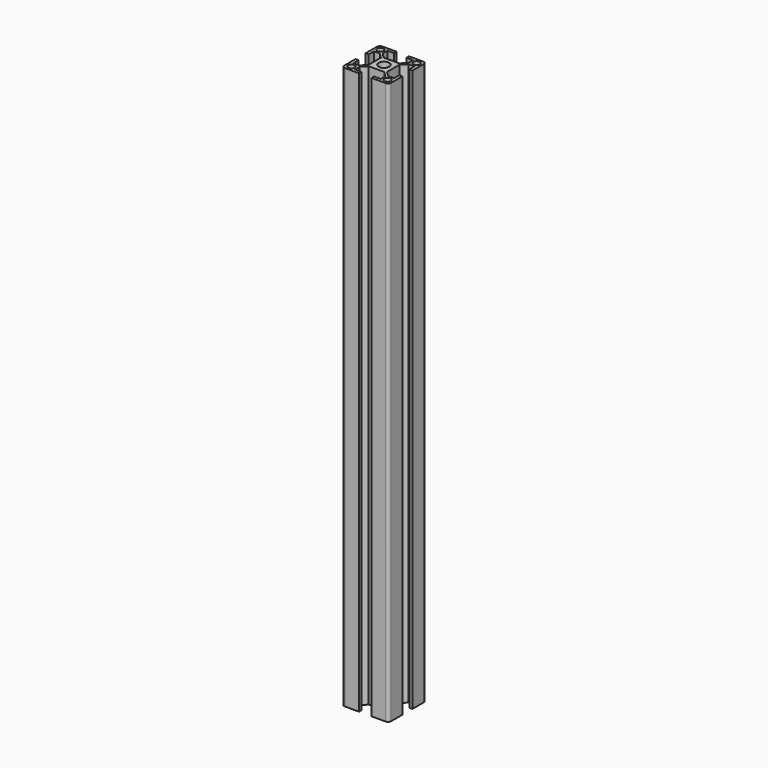
from build123d import *

# Parameters (mm, degrees)
F0_R     = 2.1
F0_R_2   = 3.4
F1_DEPTH = 300
F2_DEPTH = 360


with BuildPart() as f1:
    # F0 (on Top) → F1 (new body)
    with BuildSketch(Plane.XY):
        with BuildLine():
            Line((13, 15), (4, 15))
            Line((4, 15), (4, 13))
            Line((4, 13), (8.25, 13))
            Line((8.25, 13), (8.25, 9.247021))
            Line((8.25, 9.247021), (5.002979, 6))
            Line((5.002979, 6), (0, 6))
            Line((0, 6), (-5.002979, 6))
            Line((-5.002979, 6), (-8.25, 9.247021))
            Line((-8.25, 9.247021), (-8.25, 13))
            Line((-8.25, 13), (-4, 13))
            Line((-4, 13), (-4, 15))
            Line((-4, 15), (-13, 15))
            ThreePointArc((-13, 15), (-14.414214, 14.414214), (-15, 13))
            Line((-15, 13), (-15, 4))
            Line((-15, 4), (-13, 4))
            Line((-13, 4), (-13, 8.25))
            Line((-13, 8.25), (-9.247021, 8.25))
            Line((-9.247021, 8.25), (-6, 5.002979))
            Line((-6, 5.002979), (-6, 0))
            Line((-6, 0), (-6, -5.002979))
            Line((-6, -5.002979), (-9.247021, -8.25))
            Line((-9.247021, -8.25), (-13, -8.25))
            Line((-13, -8.25), (-13, -4))
            Line((-13, -4), (-15, -4))
            Line((-15, -4), (-15, -13))
            ThreePointArc((-15, -13), (-14.414214, -14.414214), (-13, -15))
            Line((-13, -15), (-4, -15))
            Line((-4, -15), (-4, -13))
            Line((-4, -13), (-8.25, -13))
            Line((-8.25, -13), (-8.25, -9.247021))
            Line((-8.25, -9.247021), (-5.002979, -6))
            Line((-5.002979, -6), (0, -6))
            Line((0, -6), (5.002979, -6))
            Line((5.002979, -6), (8.25, -9.247021))
            Line((8.25, -9.247021), (8.25, -13))
            Line((8.25, -13), (4, -13))
            Line((4, -13), (4, -15))
            Line((4, -15), (13, -15))
            ThreePointArc((13, -15), (14.414214, -14.414214), (15, -13))
            Line((15, -13), (15, -4))
            Line((15, -4), (13, -4))
            Line((13, -4), (13, -8.25))
            Line((13, -8.25), (9.247021, -8.25))
            Line((9.247021, -8.25), (6, -5.002979))
            Line((6, -5.002979), (6, 0))
            Line((6, 0), (6, 5.002979))
            Line((6, 5.002979), (9.247021, 8.25))
            Line((9.247021, 8.25), (13, 8.25))
            Line((13, 8.25), (13, 4))
            Line((13, 4), (15, 4))
            Line((15, 4), (15, 13))
            ThreePointArc((15, 13), (14.414214, 14.414214), (13, 15))
        make_face()
        with Locations((-11.6, -11.6)):
            Circle(F0_R, mode=Mode.SUBTRACT)
        with Locations((11.6, -11.6)):
            Circle(F0_R, mode=Mode.SUBTRACT)
        with Locations((-11.6, 11.6)):
            Circle(F0_R, mode=Mode.SUBTRACT)
        Circle(F0_R_2, mode=Mode.SUBTRACT)
        with Locations((11.6, 11.6)):
            Circle(F0_R, mode=Mode.SUBTRACT)
    extrude(amount=F1_DEPTH)


with BuildPart() as f2:
    # F0 (on Top) → F2 (new body)
    with BuildSketch(Plane.XY):
        with BuildLine():
            Line((13, 15), (4, 15))
            Line((4, 15), (4, 13))
            Line((4, 13), (8.25, 13))
            Line((8.25, 13), (8.25, 9.247021))
            Line((8.25, 9.247021), (5.002979, 6))
            Line((5.002979, 6), (0, 6))
            Line((0, 6), (-5.002979, 6))
            Line((-5.002979, 6), (-8.25, 9.247021))
            Line((-8.25, 9.247021), (-8.25, 13))
            Line((-8.25, 13), (-4, 13))
            Line((-4, 13), (-4, 15))
            Line((-4, 15), (-13, 15))
            ThreePointArc((-13, 15), (-14.414214, 14.414214), (-15, 13))
            Line((-15, 13), (-15, 4))
            Line((-15, 4), (-13, 4))
            Line((-13, 4), (-13, 8.25))
            Line((-13, 8.25), (-9.247021, 8.25))
            Line((-9.247021, 8.25), (-6, 5.002979))
            Line((-6, 5.002979), (-6, 0))
            Line((-6, 0), (-6, -5.002979))
            Line((-6, -5.002979), (-9.247021, -8.25))
            Line((-9.247021, -8.25), (-13, -8.25))
            Line((-13, -8.25), (-13, -4))
            Line((-13, -4), (-15, -4))
            Line((-15, -4), (-15, -13))
            ThreePointArc((-15, -13), (-14.414214, -14.414214), (-13, -15))
            Line((-13, -15), (-4, -15))
            Line((-4, -15), (-4, -13))
            Line((-4, -13), (-8.25, -13))
            Line((-8.25, -13), (-8.25, -9.247021))
            Line((-8.25, -9.247021), (-5.002979, -6))
            Line((-5.002979, -6), (0, -6))
            Line((0, -6), (5.002979, -6))
            Line((5.002979, -6), (8.25, -9.247021))
            Line((8.25, -9.247021), (8.25, -13))
            Line((8.25, -13), (4, -13))
            Line((4, -13), (4, -15))
            Line((4, -15), (13, -15))
            ThreePointArc((13, -15), (14.414214, -14.414214), (15, -13))
            Line((15, -13), (15, -4))
            Line((15, -4), (13, -4))
            Line((13, -4), (13, -8.25))
            Line((13, -8.25), (9.247021, -8.25))
            Line((9.247021, -8.25), (6, -5.002979))
            Line((6, -5.002979), (6, 0))
            Line((6, 0), (6, 5.002979))
            Line((6, 5.002979), (9.247021, 8.25))
            Line((9.247021, 8.25), (13, 8.25))
            Line((13, 8.25), (13, 4))
            Line((13, 4), (15, 4))
            Line((15, 4), (15, 13))
            ThreePointArc((15, 13), (14.414214, 14.414214), (13, 15))
        make_face()
        with Locations((-11.6, -11.6)):
            Circle(F0_R, mode=Mode.SUBTRACT)
        with Locations((11.6, -11.6)):
            Circle(F0_R, mode=Mode.SUBTRACT)
        with Locations((-11.6, 11.6)):
            Circle(F0_R, mode=Mode.SUBTRACT)
        Circle(F0_R_2, mode=Mode.SUBTRACT)
        with Locations((11.6, 11.6)):
            Circle(F0_R, mode=Mode.SUBTRACT)
    extrude(amount=F2_DEPTH)


solid = Compound([f1.part, f2.part])
